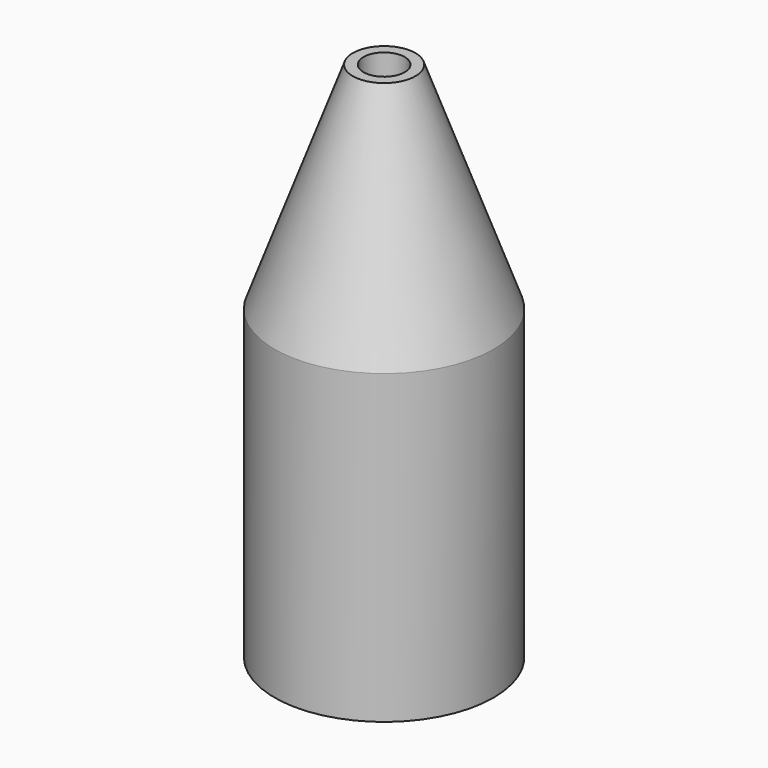
from build123d import *

# Parameters (mm, degrees)
F0_R     = 26.67
F1_DEPTH = 101.6
F2_SIZE2 = 52.3394448406
F2_SIZE  = 19.05
F3_R     = 5.0165
F4_DEPTH = 101.6
F5_DEPTH = 25.4


with BuildPart() as f1:
    # F0 (on Top) → F1 (new body)
    with BuildSketch(Plane.XY):
        Circle(F0_R)
    extrude(amount=F1_DEPTH)

    # F2
    f2_edges = [f1.edges().sort_by_distance(p)[0] for p in [
        (-26.67, 0, 101.6),
    ]]
    f2_side = f1.faces().sort_by_distance((0, 0, 101.6))[0]
    chamfer(f2_edges, length=F2_SIZE, length2=F2_SIZE2, reference=f2_side)

    # F3 (on face) → F4 (cut)
    with BuildSketch(Plane(origin=(0, 0, 0), x_dir=(1, 0, 0), z_dir=(0, 0, -1))):
        Circle(F3_R)
    extrude(amount=-F4_DEPTH, mode=Mode.SUBTRACT)

    # F5 (add): a face of the model
    f5_faces = [f1.faces().sort_by_distance(p)[0] for p in [
        (-25.9156584858, 0, 0),
    ]]
    extrude(f5_faces, amount=F5_DEPTH)


solid = f1.part
